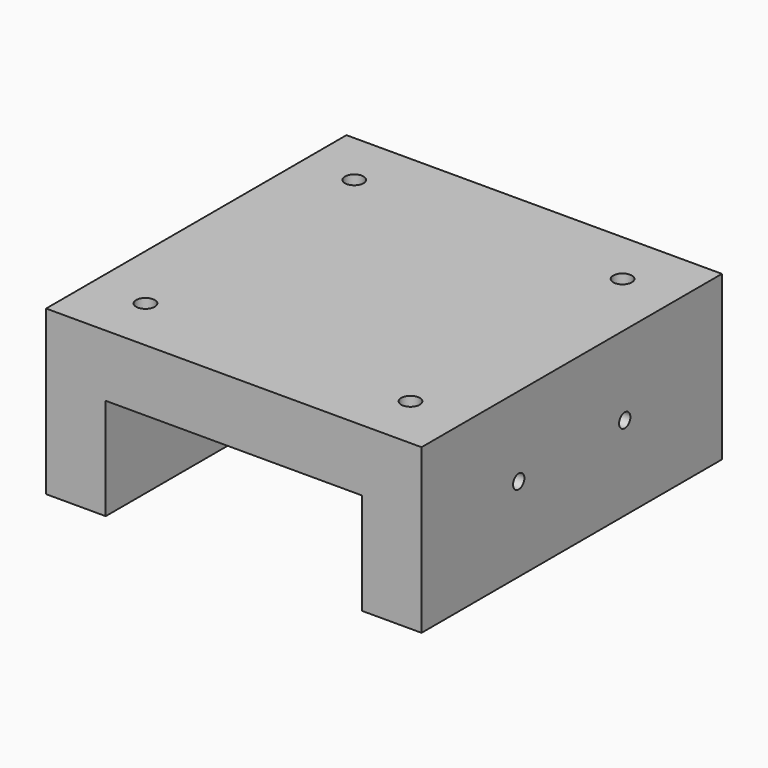
from build123d import *

# Parameters (mm, degrees)
F1_DEPTH = 85
F3_D     = 4.2
F3_DEPTH = 14.4
F3_TIP   = 1.2618073
F5_D     = 3.2


with BuildPart() as f1:
    # F0 (on Front) → F1 (new body)
    with BuildSketch(Plane.XZ):
        Polygon((0, 37), (0, 0), (13.5, 0), (13.5, 23), (71.5, 23), (71.5, 0), (85, 0), (85, 37), align=None)
    extrude(amount=F1_DEPTH)

    # F3
    with Locations(Plane.XY.offset(37)):
        with Locations((11.7691496318, -12.5), (72.5, -12.5), (72.5, -72.5), (12.5, -72.5)):
            Hole(F3_D / 2, depth=F3_DEPTH)
            with Locations((0, 0, -(F3_DEPTH + F3_TIP / 2))):  # 118° drill point
                Cone(0, F3_D / 2, F3_TIP, mode=Mode.SUBTRACT)

    # F5 (through all)
    with Locations(Plane.YZ.offset(85)):
        with Locations((-57.5, 19), (-27.5, 19)):
            Hole(F5_D / 2)


solid = f1.part
